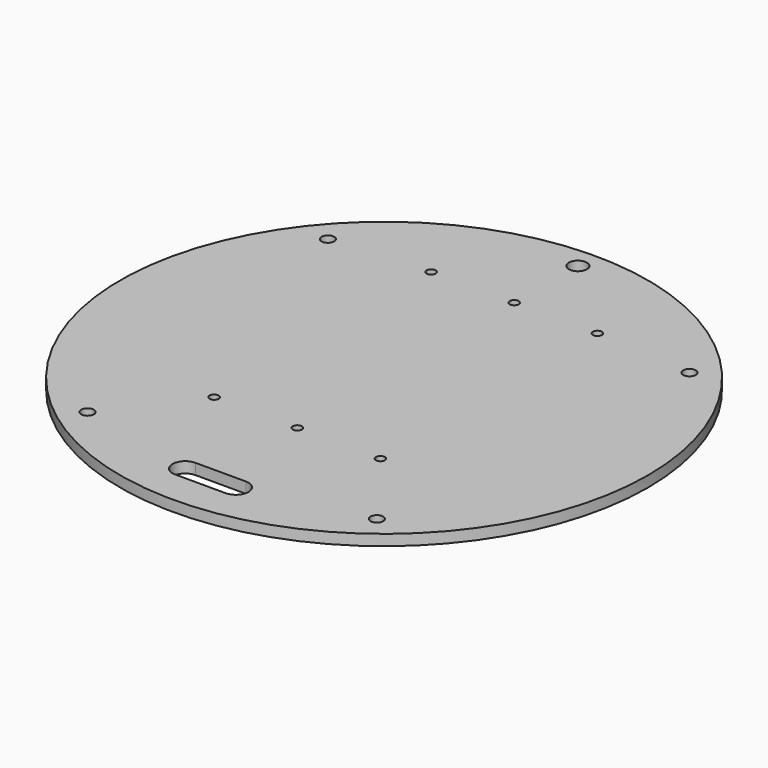
from build123d import *

# Parameters (mm, degrees)
SKETCH_R        = 73
SKETCH_R_2      = 2.5
PAD_DEPTH       = 3
SKETCH002_R     = 1.75
POCKET_DEPTH    = 3.001
SKETCH003_R     = 1.25
POCKET001_DEPTH = 3.001


with BuildPart() as part:
    # Sketch → Pad (new body)
    with BuildSketch(Plane.XY):
        Circle(SKETCH_R)
        with Locations((0, 67)):
            Circle(SKETCH_R_2, mode=Mode.SUBTRACT)
    extrude(amount=PAD_DEPTH)

    # Sketch002 (on Face4 of Pad) → Pocket (cut, through all)
    with BuildSketch(Plane.XY.offset(3)):
        with Locations((-40, -52.497619)):
            Circle(SKETCH002_R)
        with Locations((40, -52.497619)):
            Circle(SKETCH002_R)
        with Locations((-50, 43.081318)):
            Circle(SKETCH002_R)
        with Locations((50, 43.081318)):
            Circle(SKETCH002_R)
    extrude(amount=-POCKET_DEPTH, mode=Mode.SUBTRACT)

    # Sketch003 (on Face3 of Pocket) → Pocket001 (cut, through all)
    with BuildSketch(Plane.XY.offset(3)):
        with Locations((-23, 45)):
            Circle(SKETCH003_R)
        with Locations((-23, -30)):
            Circle(SKETCH003_R)
        with Locations((0, 45)):
            Circle(SKETCH003_R)
        with Locations((0, -30)):
            Circle(SKETCH003_R)
        with Locations((23, 45)):
            Circle(SKETCH003_R)
        with Locations((23, -30)):
            Circle(SKETCH003_R)
        with BuildLine():
            ThreePointArc((-7, -56.5), (-10.5, -60), (-7, -63.5))
            Line((-7, -63.5), (7, -63.5))
            ThreePointArc((7, -63.5), (10.5, -60), (7, -56.5))
            Line((-7, -56.5), (7, -56.5))
        make_face()
    extrude(amount=-POCKET001_DEPTH, mode=Mode.SUBTRACT)


solid = part.part
